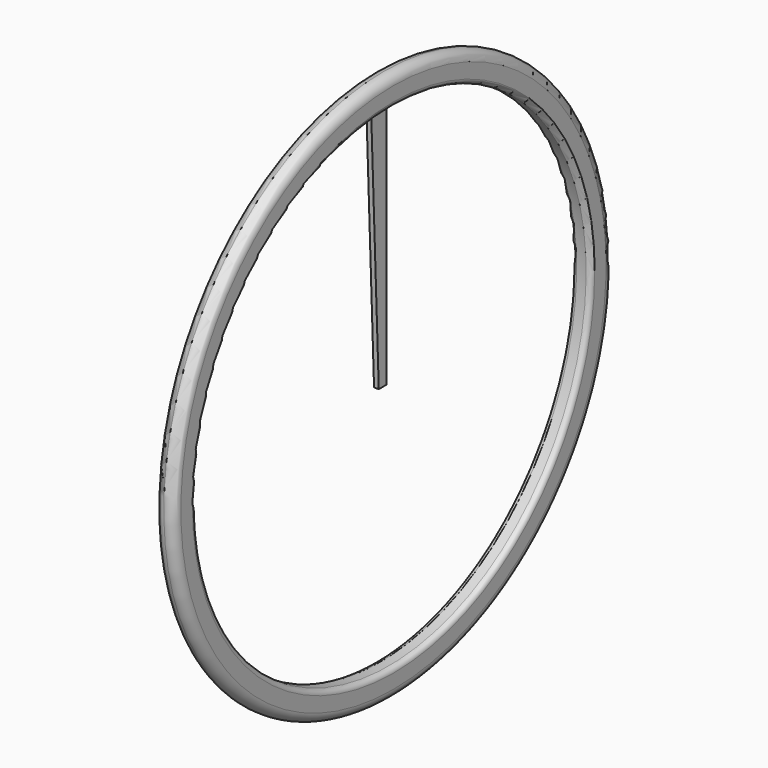
from build123d import *

# Parameters (mm, degrees)
F3_DEPTH = 3.175


with BuildPart() as f1:
    # F0 (on Front) → F1 (revolve)
    with BuildSketch(Plane.XZ):
        with BuildLine():
            ThreePointArc((-12.7, 336.55), (-10.840128, 332.059872), (-6.35, 330.2))
            Line((-6.35, 330.2), (6.35, 330.2))
            ThreePointArc((6.35, 330.2), (10.840128, 332.059872), (12.7, 336.55))
            Line((12.7, 336.55), (12.7, 355.6))
            ThreePointArc((12.7, 355.6), (8.980256, 364.580256), (0, 368.3))
            ThreePointArc((0, 368.3), (-8.980256, 364.580256), (-12.7, 355.6))
            Line((-12.7, 355.6), (-12.7, 336.55))
        make_face()
    revolve(axis=Axis((-90.849288, 0, 0), (-1, 0, 0)))

    # F2 (on Right) → F3 (join, symmetric)
    with BuildSketch(Plane.YZ):
        Polygon((-12.7, 0), (0, 0), (0, 330.2), (-25.4, 330.2), align=None)
    extrude(amount=F3_DEPTH, both=True)


solid = f1.part
